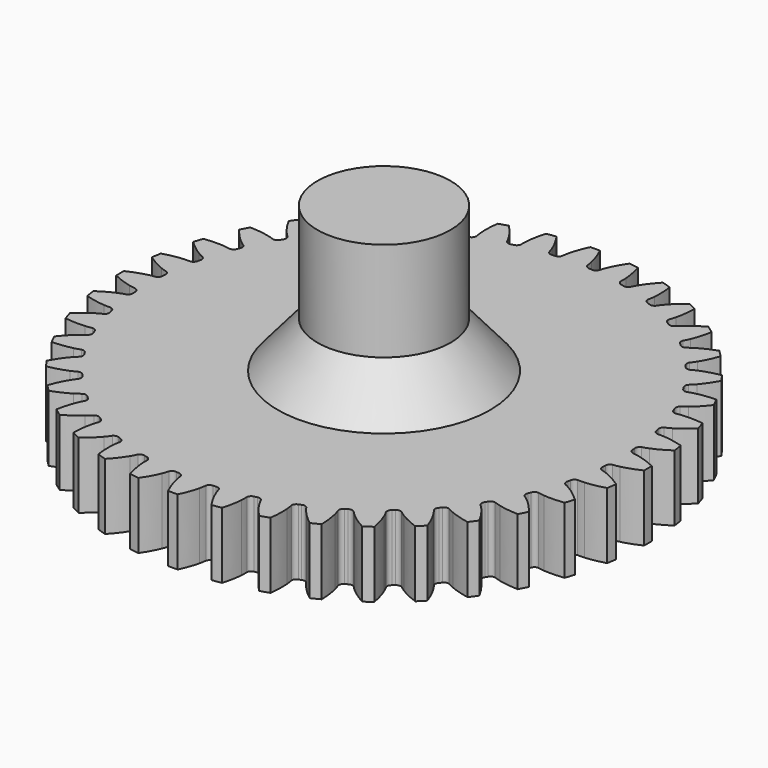
from build123d import *

# Parameters (mm, degrees)
PAD013_DEPTH    = 5
SKETCH017_R     = 5.03
PAD014_DEPTH    = 16
POCKET002_DEPTH = 5


with BuildPart() as part:
    # InvoluteGear004 → Pad013 (new body)
    with BuildSketch(Plane.XY):
        with BuildLine():
            add(Edge.make_bspline(
                [(18.024562, -0.957942), (18.140787, -0.946937), (18.307583, -0.923429), (18.522739, -0.87391)],
                knots=[0, 0, 0, 0, 1, 1, 1, 1], degree=3))
            add(Edge.make_bspline(
                [(18.522739, -0.87391), (18.877968, -0.792013), (19.360047, -0.640409), (19.947321, -0.36108)],
                knots=[0, 0, 0, 0, 1, 1, 1, 1], degree=3))
            ThreePointArc((19.947321, -0.36108), (19.950589, 0), (19.947321, 0.36108))
            add(Edge.make_bspline(
                [(19.947321, 0.36108), (19.360047, 0.640409), (18.877968, 0.792013), (18.522739, 0.87391)],
                knots=[0, 0, 0, 0, 1, 1, 1, 1], degree=3))
            add(Edge.make_bspline(
                [(18.522739, 0.87391), (18.307583, 0.923429), (18.140787, 0.946937), (18.024646, 0.957929)],
                knots=[0, 0, 0, 0, 1, 1, 1, 1], degree=3))
            ThreePointArc((18.024646, 0.957929), (17.839579, 1.083098), (17.765446, 1.293861))
            ThreePointArc((17.765446, 1.293861), (17.75759, 1.397553), (17.749129, 1.501197))
            ThreePointArc((17.749129, 1.501197), (17.789353, 1.72093), (17.952505, 1.873515))
            add(Edge.make_bspline(
                [(17.952505, 1.873515), (18.065577, 1.902566), (18.226642, 1.951876), (18.431403, 2.034444)],
                knots=[0, 0, 0, 0, 1, 1, 1, 1], degree=3))
            add(Edge.make_bspline(
                [(18.431403, 2.034444), (18.769447, 2.170903), (19.221874, 2.396054), (19.758222, 2.763814)],
                knots=[0, 0, 0, 0, 1, 1, 1, 1], degree=3))
            ThreePointArc((19.758222, 2.763814), (19.704964, 3.12096), (19.645251, 3.477083))
            add(Edge.make_bspline(
                [(19.645251, 3.477083), (19.02151, 3.661103), (18.52165, 3.735427), (18.157983, 3.760746)],
                knots=[0, 0, 0, 0, 1, 1, 1, 1], degree=3))
            add(Edge.make_bspline(
                [(18.157983, 3.760746), (17.93773, 3.775997), (17.76931, 3.773123), (17.65288, 3.765812)],
                knots=[0, 0, 0, 0, 1, 1, 1, 1], degree=3))
            ThreePointArc((17.65288, 3.765812), (17.450511, 3.860488), (17.34432, 4.057059))
            ThreePointArc((17.34432, 4.057059), (17.320339, 4.158246), (17.295768, 4.25929))
            ThreePointArc((17.295768, 4.25929), (17.301124, 4.482611), (17.438398, 4.658839))
            add(Edge.make_bspline(
                [(17.438398, 4.658839), (17.545533, 4.705221), (17.696902, 4.779121), (17.886225, 4.892703)],
                knots=[0, 0, 0, 0, 1, 1, 1, 1], degree=3))
            add(Edge.make_bspline(
                [(17.886225, 4.892703), (18.19876, 5.080364), (18.610396, 5.373519), (19.08261, 5.820654)],
                knots=[0, 0, 0, 0, 1, 1, 1, 1], degree=3))
            ThreePointArc((19.08261, 5.820654), (18.974138, 6.165071), (18.85945, 6.507469))
            add(Edge.make_bspline(
                [(18.85945, 6.507469), (18.214601, 6.591648), (17.709269, 6.586862), (17.346118, 6.554979)],
                knots=[0, 0, 0, 0, 1, 1, 1, 1], degree=3))
            add(Edge.make_bspline(
                [(17.346118, 6.554979), (17.126191, 6.535588), (16.960294, 6.506402), (16.846441, 6.480967)],
                knots=[0, 0, 0, 0, 1, 1, 1, 1], degree=3))
            ThreePointArc((16.846441, 6.480967), (16.631752, 6.54282), (16.496118, 6.72036))
            ThreePointArc((16.496118, 6.72036), (16.456604, 6.816549), (16.416529, 6.912505))
            ThreePointArc((16.416529, 6.912505), (16.386883, 7.133914), (16.494899, 7.329448))
            add(Edge.make_bspline(
                [(16.494899, 7.329448), (16.59346, 7.392018), (16.731404, 7.488687), (16.900628, 7.630488)],
                knots=[0, 0, 0, 0, 1, 1, 1, 1], degree=3))
            add(Edge.make_bspline(
                [(16.900628, 7.630488), (17.179959, 7.864729), (17.540667, 8.218669), (17.93712, 8.73417)],
                knots=[0, 0, 0, 0, 1, 1, 1, 1], degree=3))
            ThreePointArc((17.93712, 8.73417), (17.776105, 9.057378), (17.609266, 9.377619))
            add(Edge.make_bspline(
                [(17.609266, 9.377619), (16.959188, 9.359886), (16.460826, 9.276107), (16.107134, 9.187807)],
                knots=[0, 0, 0, 0, 1, 1, 1, 1], degree=3))
            add(Edge.make_bspline(
                [(16.107134, 9.187807), (15.892948, 9.13425), (15.733659, 9.079472), (15.625186, 9.036539)],
                knots=[0, 0, 0, 0, 1, 1, 1, 1], degree=3))
            ThreePointArc((15.625186, 9.036539), (15.403465, 9.064046), (15.241728, 9.218182))
            ThreePointArc((15.241728, 9.218182), (15.187653, 9.307006), (15.13306, 9.395512))
            ThreePointArc((15.13306, 9.395512), (15.069143, 9.609557), (15.145241, 9.819581))
            add(Edge.make_bspline(
                [(15.145241, 9.819581), (15.2328, 9.896799), (15.353924, 10.013857), (15.498882, 10.180384)],
                knots=[0, 0, 0, 0, 1, 1, 1, 1], degree=3))
            add(Edge.make_bspline(
                [(15.498882, 10.180384), (15.73813, 10.455439), (16.03903, 10.861448), (16.34996, 11.432621)],
                knots=[0, 0, 0, 0, 1, 1, 1, 1], degree=3))
            ThreePointArc((16.34996, 11.432621), (16.140366, 11.726662), (15.925484, 12.016861))
            add(Edge.make_bspline(
                [(15.925484, 12.016861), (15.286184, 11.897651), (14.807063, 11.736943), (14.471539, 11.594401)],
                knots=[0, 0, 0, 0, 1, 1, 1, 1], degree=3))
            add(Edge.make_bspline(
                [(14.471539, 11.594401), (14.268368, 11.507997), (14.119609, 11.428975), (14.019188, 11.369602)],
                knots=[0, 0, 0, 0, 1, 1, 1, 1], degree=3))
            ThreePointArc((14.019188, 11.369602), (13.795894, 11.362086), (13.612036, 11.489023))
            ThreePointArc((13.612036, 11.489023), (13.544731, 11.568293), (13.476965, 11.64717))
            ThreePointArc((13.476965, 11.64717), (13.380351, 11.848581), (13.422657, 12.067923))
            add(Edge.make_bspline(
                [(13.422657, 12.067923), (13.497059, 12.157888), (13.598379, 12.292453), (13.715502, 12.479606)],
                knots=[0, 0, 0, 0, 1, 1, 1, 1], degree=3))
            add(Edge.make_bspline(
                [(13.715502, 12.479606), (13.908777, 12.788701), (14.142458, 13.236783), (14.360208, 13.849564)],
                knots=[0, 0, 0, 0, 1, 1, 1, 1], degree=3))
            ThreePointArc((14.360208, 13.849564), (14.107197, 14.107197), (13.849564, 14.360208))
            add(Edge.make_bspline(
                [(13.849564, 14.360208), (13.236783, 14.142458), (12.788701, 13.908777), (12.479606, 13.715502)],
                knots=[0, 0, 0, 0, 1, 1, 1, 1], degree=3))
            add(Edge.make_bspline(
                [(12.479606, 13.715502), (12.292453, 13.598379), (12.157888, 13.497059), (12.067991, 13.422708)],
                knots=[0, 0, 0, 0, 1, 1, 1, 1], degree=3))
            ThreePointArc((12.067991, 13.422708), (11.848622, 13.380353), (11.64717, 13.476965))
            ThreePointArc((11.64717, 13.476965), (11.568293, 13.544731), (11.489023, 13.612036))
            ThreePointArc((11.489023, 13.612036), (11.362091, 13.795853), (11.369563, 14.019113))
            add(Edge.make_bspline(
                [(11.369563, 14.019113), (11.428975, 14.119609), (11.507997, 14.268368), (11.594401, 14.471539)],
                knots=[0, 0, 0, 0, 1, 1, 1, 1], degree=3))
            add(Edge.make_bspline(
                [(11.594401, 14.471539), (11.736943, 14.807063), (11.897651, 15.286184), (12.016861, 15.925484)],
                knots=[0, 0, 0, 0, 1, 1, 1, 1], degree=3))
            ThreePointArc((12.016861, 15.925484), (11.726662, 16.140366), (11.432621, 16.34996))
            add(Edge.make_bspline(
                [(11.432621, 16.34996), (10.861448, 16.03903), (10.455439, 15.73813), (10.180384, 15.498882)],
                knots=[0, 0, 0, 0, 1, 1, 1, 1], degree=3))
            add(Edge.make_bspline(
                [(10.180384, 15.498882), (10.013857, 15.353924), (9.896799, 15.2328), (9.81964, 15.145302)],
                knots=[0, 0, 0, 0, 1, 1, 1, 1], degree=3))
            ThreePointArc((9.81964, 15.145302), (9.609597, 15.069151), (9.395512, 15.13306))
            ThreePointArc((9.395512, 15.13306), (9.307006, 15.187653), (9.218182, 15.241728))
            ThreePointArc((9.218182, 15.241728), (9.064057, 15.403426), (9.036512, 15.625106))
            add(Edge.make_bspline(
                [(9.036512, 15.625106), (9.079472, 15.733659), (9.13425, 15.892948), (9.187807, 16.107134)],
                knots=[0, 0, 0, 0, 1, 1, 1, 1], degree=3))
            add(Edge.make_bspline(
                [(9.187807, 16.107134), (9.276107, 16.460826), (9.359886, 16.959188), (9.377619, 17.609266)],
                knots=[0, 0, 0, 0, 1, 1, 1, 1], degree=3))
            ThreePointArc((9.377619, 17.609266), (9.057378, 17.776105), (8.73417, 17.93712))
            add(Edge.make_bspline(
                [(8.73417, 17.93712), (8.218669, 17.540667), (7.864729, 17.179959), (7.630488, 16.900628)],
                knots=[0, 0, 0, 0, 1, 1, 1, 1], degree=3))
            add(Edge.make_bspline(
                [(7.630488, 16.900628), (7.488687, 16.731404), (7.392018, 16.59346), (7.329497, 16.494968)],
                knots=[0, 0, 0, 0, 1, 1, 1, 1], degree=3))
            ThreePointArc((7.329497, 16.494968), (7.133952, 16.386897), (6.912505, 16.416529))
            ThreePointArc((6.912505, 16.416529), (6.816549, 16.456604), (6.72036, 16.496118))
            ThreePointArc((6.72036, 16.496118), (6.542837, 16.631715), (6.480953, 16.846357))
            add(Edge.make_bspline(
                [(6.480953, 16.846357), (6.506402, 16.960294), (6.535588, 17.126191), (6.554979, 17.346118)],
                knots=[0, 0, 0, 0, 1, 1, 1, 1], degree=3))
            add(Edge.make_bspline(
                [(6.554979, 17.346118), (6.586862, 17.709269), (6.591648, 18.214601), (6.507469, 18.85945)],
                knots=[0, 0, 0, 0, 1, 1, 1, 1], degree=3))
            ThreePointArc((6.507469, 18.85945), (6.165071, 18.974138), (5.820654, 19.08261))
            add(Edge.make_bspline(
                [(5.820654, 19.08261), (5.373519, 18.610396), (5.080364, 18.19876), (4.892703, 17.886225)],
                knots=[0, 0, 0, 0, 1, 1, 1, 1], degree=3))
            add(Edge.make_bspline(
                [(4.892703, 17.886225), (4.779121, 17.696902), (4.705221, 17.545533), (4.658877, 17.438474)],
                knots=[0, 0, 0, 0, 1, 1, 1, 1], degree=3))
            ThreePointArc((4.658877, 17.438474), (4.482646, 17.301144), (4.25929, 17.295768))
            ThreePointArc((4.25929, 17.295768), (4.158246, 17.320339), (4.057059, 17.34432))
            ThreePointArc((4.057059, 17.34432), (3.86051, 17.450477), (3.765811, 17.652795))
            add(Edge.make_bspline(
                [(3.765811, 17.652795), (3.773123, 17.76931), (3.775997, 17.93773), (3.760746, 18.157983)],
                knots=[0, 0, 0, 0, 1, 1, 1, 1], degree=3))
            add(Edge.make_bspline(
                [(3.760746, 18.157983), (3.735427, 18.52165), (3.661103, 19.02151), (3.477083, 19.645251)],
                knots=[0, 0, 0, 0, 1, 1, 1, 1], degree=3))
            ThreePointArc((3.477083, 19.645251), (3.12096, 19.704964), (2.763814, 19.758222))
            add(Edge.make_bspline(
                [(2.763814, 19.758222), (2.396054, 19.221874), (2.170903, 18.769447), (2.034444, 18.431403)],
                knots=[0, 0, 0, 0, 1, 1, 1, 1], degree=3))
            add(Edge.make_bspline(
                [(2.034444, 18.431403), (1.951876, 18.226642), (1.902566, 18.065577), (1.87354, 17.952586)],
                knots=[0, 0, 0, 0, 1, 1, 1, 1], degree=3))
            ThreePointArc((1.87354, 17.952586), (1.720962, 17.789378), (1.501197, 17.749129))
            ThreePointArc((1.501197, 17.749129), (1.397553, 17.75759), (1.293861, 17.765446))
            ThreePointArc((1.293861, 17.765446), (1.083125, 17.839549), (0.957942, 18.024562))
            add(Edge.make_bspline(
                [(0.957942, 18.024562), (0.946937, 18.140787), (0.923429, 18.307583), (0.87391, 18.522739)],
                knots=[0, 0, 0, 0, 1, 1, 1, 1], degree=3))
            add(Edge.make_bspline(
                [(0.87391, 18.522739), (0.792013, 18.877968), (0.640409, 19.360047), (0.36108, 19.947321)],
                knots=[0, 0, 0, 0, 1, 1, 1, 1], degree=3))
            ThreePointArc((0.36108, 19.947321), (0, 19.950589), (-0.36108, 19.947321))
            add(Edge.make_bspline(
                [(-0.36108, 19.947321), (-0.640409, 19.360047), (-0.792013, 18.877968), (-0.87391, 18.522739)],
                knots=[0, 0, 0, 0, 1, 1, 1, 1], degree=3))
            add(Edge.make_bspline(
                [(-0.87391, 18.522739), (-0.923429, 18.307583), (-0.946937, 18.140787), (-0.957929, 18.024646)],
                knots=[0, 0, 0, 0, 1, 1, 1, 1], degree=3))
            ThreePointArc((-0.957929, 18.024646), (-1.083098, 17.839579), (-1.293861, 17.765446))
            ThreePointArc((-1.293861, 17.765446), (-1.397553, 17.75759), (-1.501197, 17.749129))
            ThreePointArc((-1.501197, 17.749129), (-1.72093, 17.789353), (-1.873515, 17.952505))
            add(Edge.make_bspline(
                [(-1.873515, 17.952505), (-1.902566, 18.065577), (-1.951876, 18.226642), (-2.034444, 18.431403)],
                knots=[0, 0, 0, 0, 1, 1, 1, 1], degree=3))
            add(Edge.make_bspline(
                [(-2.034444, 18.431403), (-2.170903, 18.769447), (-2.396054, 19.221874), (-2.763814, 19.758222)],
                knots=[0, 0, 0, 0, 1, 1, 1, 1], degree=3))
            ThreePointArc((-2.763814, 19.758222), (-3.12096, 19.704964), (-3.477083, 19.645251))
            add(Edge.make_bspline(
                [(-3.477083, 19.645251), (-3.661103, 19.02151), (-3.735427, 18.52165), (-3.760746, 18.157983)],
                knots=[0, 0, 0, 0, 1, 1, 1, 1], degree=3))
            add(Edge.make_bspline(
                [(-3.760746, 18.157983), (-3.775997, 17.93773), (-3.773123, 17.76931), (-3.765812, 17.65288)],
                knots=[0, 0, 0, 0, 1, 1, 1, 1], degree=3))
            ThreePointArc((-3.765812, 17.65288), (-3.860488, 17.450511), (-4.057059, 17.34432))
            ThreePointArc((-4.057059, 17.34432), (-4.158246, 17.320339), (-4.25929, 17.295768))
            ThreePointArc((-4.25929, 17.295768), (-4.482611, 17.301124), (-4.658839, 17.438398))
            add(Edge.make_bspline(
                [(-4.658839, 17.438398), (-4.705221, 17.545533), (-4.779121, 17.696902), (-4.892703, 17.886225)],
                knots=[0, 0, 0, 0, 1, 1, 1, 1], degree=3))
            add(Edge.make_bspline(
                [(-4.892703, 17.886225), (-5.080364, 18.19876), (-5.373519, 18.610396), (-5.820654, 19.08261)],
                knots=[0, 0, 0, 0, 1, 1, 1, 1], degree=3))
            ThreePointArc((-5.820654, 19.08261), (-6.165071, 18.974138), (-6.507469, 18.85945))
            add(Edge.make_bspline(
                [(-6.507469, 18.85945), (-6.591648, 18.214601), (-6.586862, 17.709269), (-6.554979, 17.346118)],
                knots=[0, 0, 0, 0, 1, 1, 1, 1], degree=3))
            add(Edge.make_bspline(
                [(-6.554979, 17.346118), (-6.535588, 17.126191), (-6.506402, 16.960294), (-6.480967, 16.846441)],
                knots=[0, 0, 0, 0, 1, 1, 1, 1], degree=3))
            ThreePointArc((-6.480967, 16.846441), (-6.54282, 16.631752), (-6.72036, 16.496118))
            ThreePointArc((-6.72036, 16.496118), (-6.816549, 16.456604), (-6.912505, 16.416529))
            ThreePointArc((-6.912505, 16.416529), (-7.133914, 16.386883), (-7.329448, 16.494899))
            add(Edge.make_bspline(
                [(-7.329448, 16.494899), (-7.392018, 16.59346), (-7.488687, 16.731404), (-7.630488, 16.900628)],
                knots=[0, 0, 0, 0, 1, 1, 1, 1], degree=3))
            add(Edge.make_bspline(
                [(-7.630488, 16.900628), (-7.864729, 17.179959), (-8.218669, 17.540667), (-8.73417, 17.93712)],
                knots=[0, 0, 0, 0, 1, 1, 1, 1], degree=3))
            ThreePointArc((-8.73417, 17.93712), (-9.057378, 17.776105), (-9.377619, 17.609266))
            add(Edge.make_bspline(
                [(-9.377619, 17.609266), (-9.359886, 16.959188), (-9.276107, 16.460826), (-9.187807, 16.107134)],
                knots=[0, 0, 0, 0, 1, 1, 1, 1], degree=3))
            add(Edge.make_bspline(
                [(-9.187807, 16.107134), (-9.13425, 15.892948), (-9.079472, 15.733659), (-9.036539, 15.625186)],
                knots=[0, 0, 0, 0, 1, 1, 1, 1], degree=3))
            ThreePointArc((-9.036539, 15.625186), (-9.064046, 15.403465), (-9.218182, 15.241728))
            ThreePointArc((-9.218182, 15.241728), (-9.307006, 15.187653), (-9.395512, 15.13306))
            ThreePointArc((-9.395512, 15.13306), (-9.609557, 15.069143), (-9.819581, 15.145241))
            add(Edge.make_bspline(
                [(-9.819581, 15.145241), (-9.896799, 15.2328), (-10.013857, 15.353924), (-10.180384, 15.498882)],
                knots=[0, 0, 0, 0, 1, 1, 1, 1], degree=3))
            add(Edge.make_bspline(
                [(-10.180384, 15.498882), (-10.455439, 15.73813), (-10.861448, 16.03903), (-11.432621, 16.34996)],
                knots=[0, 0, 0, 0, 1, 1, 1, 1], degree=3))
            ThreePointArc((-11.432621, 16.34996), (-11.726662, 16.140366), (-12.016861, 15.925484))
            add(Edge.make_bspline(
                [(-12.016861, 15.925484), (-11.897651, 15.286184), (-11.736943, 14.807063), (-11.594401, 14.471539)],
                knots=[0, 0, 0, 0, 1, 1, 1, 1], degree=3))
            add(Edge.make_bspline(
                [(-11.594401, 14.471539), (-11.507997, 14.268368), (-11.428975, 14.119609), (-11.369602, 14.019188)],
                knots=[0, 0, 0, 0, 1, 1, 1, 1], degree=3))
            ThreePointArc((-11.369602, 14.019188), (-11.362086, 13.795894), (-11.489023, 13.612036))
            ThreePointArc((-11.489023, 13.612036), (-11.568293, 13.544731), (-11.64717, 13.476965))
            ThreePointArc((-11.64717, 13.476965), (-11.848581, 13.380351), (-12.067923, 13.422657))
            add(Edge.make_bspline(
                [(-12.067923, 13.422657), (-12.157888, 13.497059), (-12.292453, 13.598379), (-12.479606, 13.715502)],
                knots=[0, 0, 0, 0, 1, 1, 1, 1], degree=3))
            add(Edge.make_bspline(
                [(-12.479606, 13.715502), (-12.788701, 13.908777), (-13.236783, 14.142458), (-13.849564, 14.360208)],
                knots=[0, 0, 0, 0, 1, 1, 1, 1], degree=3))
            ThreePointArc((-13.849564, 14.360208), (-14.107197, 14.107197), (-14.360208, 13.849564))
            add(Edge.make_bspline(
                [(-14.360208, 13.849564), (-14.142458, 13.236783), (-13.908777, 12.788701), (-13.715502, 12.479606)],
                knots=[0, 0, 0, 0, 1, 1, 1, 1], degree=3))
            add(Edge.make_bspline(
                [(-13.715502, 12.479606), (-13.598379, 12.292453), (-13.497059, 12.157888), (-13.422708, 12.067991)],
                knots=[0, 0, 0, 0, 1, 1, 1, 1], degree=3))
            ThreePointArc((-13.422708, 12.067991), (-13.380353, 11.848622), (-13.476965, 11.64717))
            ThreePointArc((-13.476965, 11.64717), (-13.544731, 11.568293), (-13.612036, 11.489023))
            ThreePointArc((-13.612036, 11.489023), (-13.795853, 11.362091), (-14.019113, 11.369563))
            add(Edge.make_bspline(
                [(-14.019113, 11.369563), (-14.119609, 11.428975), (-14.268368, 11.507997), (-14.471539, 11.594401)],
                knots=[0, 0, 0, 0, 1, 1, 1, 1], degree=3))
            add(Edge.make_bspline(
                [(-14.471539, 11.594401), (-14.807063, 11.736943), (-15.286184, 11.897651), (-15.925484, 12.016861)],
                knots=[0, 0, 0, 0, 1, 1, 1, 1], degree=3))
            ThreePointArc((-15.925484, 12.016861), (-16.140366, 11.726662), (-16.34996, 11.432621))
            add(Edge.make_bspline(
                [(-16.34996, 11.432621), (-16.03903, 10.861448), (-15.73813, 10.455439), (-15.498882, 10.180384)],
                knots=[0, 0, 0, 0, 1, 1, 1, 1], degree=3))
            add(Edge.make_bspline(
                [(-15.498882, 10.180384), (-15.353924, 10.013857), (-15.2328, 9.896799), (-15.145302, 9.81964)],
                knots=[0, 0, 0, 0, 1, 1, 1, 1], degree=3))
            ThreePointArc((-15.145302, 9.81964), (-15.069151, 9.609597), (-15.13306, 9.395512))
            ThreePointArc((-15.13306, 9.395512), (-15.187653, 9.307006), (-15.241728, 9.218182))
            ThreePointArc((-15.241728, 9.218182), (-15.403426, 9.064057), (-15.625106, 9.036512))
            add(Edge.make_bspline(
                [(-15.625106, 9.036512), (-15.733659, 9.079472), (-15.892948, 9.13425), (-16.107134, 9.187807)],
                knots=[0, 0, 0, 0, 1, 1, 1, 1], degree=3))
            add(Edge.make_bspline(
                [(-16.107134, 9.187807), (-16.460826, 9.276107), (-16.959188, 9.359886), (-17.609266, 9.377619)],
                knots=[0, 0, 0, 0, 1, 1, 1, 1], degree=3))
            ThreePointArc((-17.609266, 9.377619), (-17.776105, 9.057378), (-17.93712, 8.73417))
            add(Edge.make_bspline(
                [(-17.93712, 8.73417), (-17.540667, 8.218669), (-17.179959, 7.864729), (-16.900628, 7.630488)],
                knots=[0, 0, 0, 0, 1, 1, 1, 1], degree=3))
            add(Edge.make_bspline(
                [(-16.900628, 7.630488), (-16.731404, 7.488687), (-16.59346, 7.392018), (-16.494968, 7.329497)],
                knots=[0, 0, 0, 0, 1, 1, 1, 1], degree=3))
            ThreePointArc((-16.494968, 7.329497), (-16.386897, 7.133952), (-16.416529, 6.912505))
            ThreePointArc((-16.416529, 6.912505), (-16.456604, 6.816549), (-16.496118, 6.72036))
            ThreePointArc((-16.496118, 6.72036), (-16.631715, 6.542837), (-16.846357, 6.480953))
            add(Edge.make_bspline(
                [(-16.846357, 6.480953), (-16.960294, 6.506402), (-17.126191, 6.535588), (-17.346118, 6.554979)],
                knots=[0, 0, 0, 0, 1, 1, 1, 1], degree=3))
            add(Edge.make_bspline(
                [(-17.346118, 6.554979), (-17.709269, 6.586862), (-18.214601, 6.591648), (-18.85945, 6.507469)],
                knots=[0, 0, 0, 0, 1, 1, 1, 1], degree=3))
            ThreePointArc((-18.85945, 6.507469), (-18.974138, 6.165071), (-19.08261, 5.820654))
            add(Edge.make_bspline(
                [(-19.08261, 5.820654), (-18.610396, 5.373519), (-18.19876, 5.080364), (-17.886225, 4.892703)],
                knots=[0, 0, 0, 0, 1, 1, 1, 1], degree=3))
            add(Edge.make_bspline(
                [(-17.886225, 4.892703), (-17.696902, 4.779121), (-17.545533, 4.705221), (-17.438474, 4.658877)],
                knots=[0, 0, 0, 0, 1, 1, 1, 1], degree=3))
            ThreePointArc((-17.438474, 4.658877), (-17.301144, 4.482646), (-17.295768, 4.25929))
            ThreePointArc((-17.295768, 4.25929), (-17.320339, 4.158246), (-17.34432, 4.057059))
            ThreePointArc((-17.34432, 4.057059), (-17.450477, 3.86051), (-17.652795, 3.765811))
            add(Edge.make_bspline(
                [(-17.652795, 3.765811), (-17.76931, 3.773123), (-17.93773, 3.775997), (-18.157983, 3.760746)],
                knots=[0, 0, 0, 0, 1, 1, 1, 1], degree=3))
            add(Edge.make_bspline(
                [(-18.157983, 3.760746), (-18.52165, 3.735427), (-19.02151, 3.661103), (-19.645251, 3.477083)],
                knots=[0, 0, 0, 0, 1, 1, 1, 1], degree=3))
            ThreePointArc((-19.645251, 3.477083), (-19.704964, 3.12096), (-19.758222, 2.763814))
            add(Edge.make_bspline(
                [(-19.758222, 2.763814), (-19.221874, 2.396054), (-18.769447, 2.170903), (-18.431403, 2.034444)],
                knots=[0, 0, 0, 0, 1, 1, 1, 1], degree=3))
            add(Edge.make_bspline(
                [(-18.431403, 2.034444), (-18.226642, 1.951876), (-18.065577, 1.902566), (-17.952586, 1.87354)],
                knots=[0, 0, 0, 0, 1, 1, 1, 1], degree=3))
            ThreePointArc((-17.952586, 1.87354), (-17.789378, 1.720962), (-17.749129, 1.501197))
            ThreePointArc((-17.749129, 1.501197), (-17.75759, 1.397553), (-17.765446, 1.293861))
            ThreePointArc((-17.765446, 1.293861), (-17.839549, 1.083125), (-18.024562, 0.957942))
            add(Edge.make_bspline(
                [(-18.024562, 0.957942), (-18.140787, 0.946937), (-18.307583, 0.923429), (-18.522739, 0.87391)],
                knots=[0, 0, 0, 0, 1, 1, 1, 1], degree=3))
            add(Edge.make_bspline(
                [(-18.522739, 0.87391), (-18.877968, 0.792013), (-19.360047, 0.640409), (-19.947321, 0.36108)],
                knots=[0, 0, 0, 0, 1, 1, 1, 1], degree=3))
            ThreePointArc((-19.947321, 0.36108), (-19.950589, 0), (-19.947321, -0.36108))
            add(Edge.make_bspline(
                [(-19.947321, -0.36108), (-19.360047, -0.640409), (-18.877968, -0.792013), (-18.522739, -0.87391)],
                knots=[0, 0, 0, 0, 1, 1, 1, 1], degree=3))
            add(Edge.make_bspline(
                [(-18.522739, -0.87391), (-18.307583, -0.923429), (-18.140787, -0.946937), (-18.024646, -0.957929)],
                knots=[0, 0, 0, 0, 1, 1, 1, 1], degree=3))
            ThreePointArc((-18.024646, -0.957929), (-17.839579, -1.083098), (-17.765446, -1.293861))
            ThreePointArc((-17.765446, -1.293861), (-17.75759, -1.397553), (-17.749129, -1.501197))
            ThreePointArc((-17.749129, -1.501197), (-17.789353, -1.72093), (-17.952505, -1.873515))
            add(Edge.make_bspline(
                [(-17.952505, -1.873515), (-18.065577, -1.902566), (-18.226642, -1.951876), (-18.431403, -2.034444)],
                knots=[0, 0, 0, 0, 1, 1, 1, 1], degree=3))
            add(Edge.make_bspline(
                [(-18.431403, -2.034444), (-18.769447, -2.170903), (-19.221874, -2.396054), (-19.758222, -2.763814)],
                knots=[0, 0, 0, 0, 1, 1, 1, 1], degree=3))
            ThreePointArc((-19.758222, -2.763814), (-19.704964, -3.12096), (-19.645251, -3.477083))
            add(Edge.make_bspline(
                [(-19.645251, -3.477083), (-19.02151, -3.661103), (-18.52165, -3.735427), (-18.157983, -3.760746)],
                knots=[0, 0, 0, 0, 1, 1, 1, 1], degree=3))
            add(Edge.make_bspline(
                [(-18.157983, -3.760746), (-17.93773, -3.775997), (-17.76931, -3.773123), (-17.65288, -3.765812)],
                knots=[0, 0, 0, 0, 1, 1, 1, 1], degree=3))
            ThreePointArc((-17.65288, -3.765812), (-17.450511, -3.860488), (-17.34432, -4.057059))
            ThreePointArc((-17.34432, -4.057059), (-17.320339, -4.158246), (-17.295768, -4.25929))
            ThreePointArc((-17.295768, -4.25929), (-17.301124, -4.482611), (-17.438398, -4.658839))
            add(Edge.make_bspline(
                [(-17.438398, -4.658839), (-17.545533, -4.705221), (-17.696902, -4.779121), (-17.886225, -4.892703)],
                knots=[0, 0, 0, 0, 1, 1, 1, 1], degree=3))
            add(Edge.make_bspline(
                [(-17.886225, -4.892703), (-18.19876, -5.080364), (-18.610396, -5.373519), (-19.08261, -5.820654)],
                knots=[0, 0, 0, 0, 1, 1, 1, 1], degree=3))
            ThreePointArc((-19.08261, -5.820654), (-18.974138, -6.165071), (-18.85945, -6.507469))
            add(Edge.make_bspline(
                [(-18.85945, -6.507469), (-18.214601, -6.591648), (-17.709269, -6.586862), (-17.346118, -6.554979)],
                knots=[0, 0, 0, 0, 1, 1, 1, 1], degree=3))
            add(Edge.make_bspline(
                [(-17.346118, -6.554979), (-17.126191, -6.535588), (-16.960294, -6.506402), (-16.846441, -6.480967)],
                knots=[0, 0, 0, 0, 1, 1, 1, 1], degree=3))
            ThreePointArc((-16.846441, -6.480967), (-16.631752, -6.54282), (-16.496118, -6.72036))
            ThreePointArc((-16.496118, -6.72036), (-16.456604, -6.816549), (-16.416529, -6.912505))
            ThreePointArc((-16.416529, -6.912505), (-16.386883, -7.133914), (-16.494899, -7.329448))
            add(Edge.make_bspline(
                [(-16.494899, -7.329448), (-16.59346, -7.392018), (-16.731404, -7.488687), (-16.900628, -7.630488)],
                knots=[0, 0, 0, 0, 1, 1, 1, 1], degree=3))
            add(Edge.make_bspline(
                [(-16.900628, -7.630488), (-17.179959, -7.864729), (-17.540667, -8.218669), (-17.93712, -8.73417)],
                knots=[0, 0, 0, 0, 1, 1, 1, 1], degree=3))
            ThreePointArc((-17.93712, -8.73417), (-17.776105, -9.057378), (-17.609266, -9.377619))
            add(Edge.make_bspline(
                [(-17.609266, -9.377619), (-16.959188, -9.359886), (-16.460826, -9.276107), (-16.107134, -9.187807)],
                knots=[0, 0, 0, 0, 1, 1, 1, 1], degree=3))
            add(Edge.make_bspline(
                [(-16.107134, -9.187807), (-15.892948, -9.13425), (-15.733659, -9.079472), (-15.625186, -9.036539)],
                knots=[0, 0, 0, 0, 1, 1, 1, 1], degree=3))
            ThreePointArc((-15.625186, -9.036539), (-15.403465, -9.064046), (-15.241728, -9.218182))
            ThreePointArc((-15.241728, -9.218182), (-15.187653, -9.307006), (-15.13306, -9.395512))
            ThreePointArc((-15.13306, -9.395512), (-15.069143, -9.609557), (-15.145241, -9.819581))
            add(Edge.make_bspline(
                [(-15.145241, -9.819581), (-15.2328, -9.896799), (-15.353924, -10.013857), (-15.498882, -10.180384)],
                knots=[0, 0, 0, 0, 1, 1, 1, 1], degree=3))
            add(Edge.make_bspline(
                [(-15.498882, -10.180384), (-15.73813, -10.455439), (-16.03903, -10.861448), (-16.34996, -11.432621)],
                knots=[0, 0, 0, 0, 1, 1, 1, 1], degree=3))
            ThreePointArc((-16.34996, -11.432621), (-16.140366, -11.726662), (-15.925484, -12.016861))
            add(Edge.make_bspline(
                [(-15.925484, -12.016861), (-15.286184, -11.897651), (-14.807063, -11.736943), (-14.471539, -11.594401)],
                knots=[0, 0, 0, 0, 1, 1, 1, 1], degree=3))
            add(Edge.make_bspline(
                [(-14.471539, -11.594401), (-14.268368, -11.507997), (-14.119609, -11.428975), (-14.019188, -11.369602)],
                knots=[0, 0, 0, 0, 1, 1, 1, 1], degree=3))
            ThreePointArc((-14.019188, -11.369602), (-13.795894, -11.362086), (-13.612036, -11.489023))
            ThreePointArc((-13.612036, -11.489023), (-13.544731, -11.568293), (-13.476965, -11.64717))
            ThreePointArc((-13.476965, -11.64717), (-13.380351, -11.848581), (-13.422657, -12.067923))
            add(Edge.make_bspline(
                [(-13.422657, -12.067923), (-13.497059, -12.157888), (-13.598379, -12.292453), (-13.715502, -12.479606)],
                knots=[0, 0, 0, 0, 1, 1, 1, 1], degree=3))
            add(Edge.make_bspline(
                [(-13.715502, -12.479606), (-13.908777, -12.788701), (-14.142458, -13.236783), (-14.360208, -13.849564)],
                knots=[0, 0, 0, 0, 1, 1, 1, 1], degree=3))
            ThreePointArc((-14.360208, -13.849564), (-14.107197, -14.107197), (-13.849564, -14.360208))
            add(Edge.make_bspline(
                [(-13.849564, -14.360208), (-13.236783, -14.142458), (-12.788701, -13.908777), (-12.479606, -13.715502)],
                knots=[0, 0, 0, 0, 1, 1, 1, 1], degree=3))
            add(Edge.make_bspline(
                [(-12.479606, -13.715502), (-12.292453, -13.598379), (-12.157888, -13.497059), (-12.067991, -13.422708)],
                knots=[0, 0, 0, 0, 1, 1, 1, 1], degree=3))
            ThreePointArc((-12.067991, -13.422708), (-11.848622, -13.380353), (-11.64717, -13.476965))
            ThreePointArc((-11.64717, -13.476965), (-11.568293, -13.544731), (-11.489023, -13.612036))
            ThreePointArc((-11.489023, -13.612036), (-11.362091, -13.795853), (-11.369563, -14.019113))
            add(Edge.make_bspline(
                [(-11.369563, -14.019113), (-11.428975, -14.119609), (-11.507997, -14.268368), (-11.594401, -14.471539)],
                knots=[0, 0, 0, 0, 1, 1, 1, 1], degree=3))
            add(Edge.make_bspline(
                [(-11.594401, -14.471539), (-11.736943, -14.807063), (-11.897651, -15.286184), (-12.016861, -15.925484)],
                knots=[0, 0, 0, 0, 1, 1, 1, 1], degree=3))
            ThreePointArc((-12.016861, -15.925484), (-11.726662, -16.140366), (-11.432621, -16.34996))
            add(Edge.make_bspline(
                [(-11.432621, -16.34996), (-10.861448, -16.03903), (-10.455439, -15.73813), (-10.180384, -15.498882)],
                knots=[0, 0, 0, 0, 1, 1, 1, 1], degree=3))
            add(Edge.make_bspline(
                [(-10.180384, -15.498882), (-10.013857, -15.353924), (-9.896799, -15.2328), (-9.81964, -15.145302)],
                knots=[0, 0, 0, 0, 1, 1, 1, 1], degree=3))
            ThreePointArc((-9.81964, -15.145302), (-9.609597, -15.069151), (-9.395512, -15.13306))
            ThreePointArc((-9.395512, -15.13306), (-9.307006, -15.187653), (-9.218182, -15.241728))
            ThreePointArc((-9.218182, -15.241728), (-9.064057, -15.403426), (-9.036512, -15.625106))
            add(Edge.make_bspline(
                [(-9.036512, -15.625106), (-9.079472, -15.733659), (-9.13425, -15.892948), (-9.187807, -16.107134)],
                knots=[0, 0, 0, 0, 1, 1, 1, 1], degree=3))
            add(Edge.make_bspline(
                [(-9.187807, -16.107134), (-9.276107, -16.460826), (-9.359886, -16.959188), (-9.377619, -17.609266)],
                knots=[0, 0, 0, 0, 1, 1, 1, 1], degree=3))
            ThreePointArc((-9.377619, -17.609266), (-9.057378, -17.776105), (-8.73417, -17.93712))
            add(Edge.make_bspline(
                [(-8.73417, -17.93712), (-8.218669, -17.540667), (-7.864729, -17.179959), (-7.630488, -16.900628)],
                knots=[0, 0, 0, 0, 1, 1, 1, 1], degree=3))
            add(Edge.make_bspline(
                [(-7.630488, -16.900628), (-7.488687, -16.731404), (-7.392018, -16.59346), (-7.329497, -16.494968)],
                knots=[0, 0, 0, 0, 1, 1, 1, 1], degree=3))
            ThreePointArc((-7.329497, -16.494968), (-7.133952, -16.386897), (-6.912505, -16.416529))
            ThreePointArc((-6.912505, -16.416529), (-6.816549, -16.456604), (-6.72036, -16.496118))
            ThreePointArc((-6.72036, -16.496118), (-6.542837, -16.631715), (-6.480953, -16.846357))
            add(Edge.make_bspline(
                [(-6.480953, -16.846357), (-6.506402, -16.960294), (-6.535588, -17.126191), (-6.554979, -17.346118)],
                knots=[0, 0, 0, 0, 1, 1, 1, 1], degree=3))
            add(Edge.make_bspline(
                [(-6.554979, -17.346118), (-6.586862, -17.709269), (-6.591648, -18.214601), (-6.507469, -18.85945)],
                knots=[0, 0, 0, 0, 1, 1, 1, 1], degree=3))
            ThreePointArc((-6.507469, -18.85945), (-6.165071, -18.974138), (-5.820654, -19.08261))
            add(Edge.make_bspline(
                [(-5.820654, -19.08261), (-5.373519, -18.610396), (-5.080364, -18.19876), (-4.892703, -17.886225)],
                knots=[0, 0, 0, 0, 1, 1, 1, 1], degree=3))
            add(Edge.make_bspline(
                [(-4.892703, -17.886225), (-4.779121, -17.696902), (-4.705221, -17.545533), (-4.658877, -17.438474)],
                knots=[0, 0, 0, 0, 1, 1, 1, 1], degree=3))
            ThreePointArc((-4.658877, -17.438474), (-4.482646, -17.301144), (-4.25929, -17.295768))
            ThreePointArc((-4.25929, -17.295768), (-4.158246, -17.320339), (-4.057059, -17.34432))
            ThreePointArc((-4.057059, -17.34432), (-3.86051, -17.450477), (-3.765811, -17.652795))
            add(Edge.make_bspline(
                [(-3.765811, -17.652795), (-3.773123, -17.76931), (-3.775997, -17.93773), (-3.760746, -18.157983)],
                knots=[0, 0, 0, 0, 1, 1, 1, 1], degree=3))
            add(Edge.make_bspline(
                [(-3.760746, -18.157983), (-3.735427, -18.52165), (-3.661103, -19.02151), (-3.477083, -19.645251)],
                knots=[0, 0, 0, 0, 1, 1, 1, 1], degree=3))
            ThreePointArc((-3.477083, -19.645251), (-3.12096, -19.704964), (-2.763814, -19.758222))
            add(Edge.make_bspline(
                [(-2.763814, -19.758222), (-2.396054, -19.221874), (-2.170903, -18.769447), (-2.034444, -18.431403)],
                knots=[0, 0, 0, 0, 1, 1, 1, 1], degree=3))
            add(Edge.make_bspline(
                [(-2.034444, -18.431403), (-1.951876, -18.226642), (-1.902566, -18.065577), (-1.87354, -17.952586)],
                knots=[0, 0, 0, 0, 1, 1, 1, 1], degree=3))
            ThreePointArc((-1.87354, -17.952586), (-1.720962, -17.789378), (-1.501197, -17.749129))
            ThreePointArc((-1.501197, -17.749129), (-1.397553, -17.75759), (-1.293861, -17.765446))
            ThreePointArc((-1.293861, -17.765446), (-1.083125, -17.839549), (-0.957942, -18.024562))
            add(Edge.make_bspline(
                [(-0.957942, -18.024562), (-0.946937, -18.140787), (-0.923429, -18.307583), (-0.87391, -18.522739)],
                knots=[0, 0, 0, 0, 1, 1, 1, 1], degree=3))
            add(Edge.make_bspline(
                [(-0.87391, -18.522739), (-0.792013, -18.877968), (-0.640409, -19.360047), (-0.36108, -19.947321)],
                knots=[0, 0, 0, 0, 1, 1, 1, 1], degree=3))
            ThreePointArc((-0.36108, -19.947321), (0, -19.950589), (0.36108, -19.947321))
            add(Edge.make_bspline(
                [(0.36108, -19.947321), (0.640409, -19.360047), (0.792013, -18.877968), (0.87391, -18.522739)],
                knots=[0, 0, 0, 0, 1, 1, 1, 1], degree=3))
            add(Edge.make_bspline(
                [(0.87391, -18.522739), (0.923429, -18.307583), (0.946937, -18.140787), (0.957929, -18.024646)],
                knots=[0, 0, 0, 0, 1, 1, 1, 1], degree=3))
            ThreePointArc((0.957929, -18.024646), (1.083098, -17.839579), (1.293861, -17.765446))
            ThreePointArc((1.293861, -17.765446), (1.397553, -17.75759), (1.501197, -17.749129))
            ThreePointArc((1.501197, -17.749129), (1.72093, -17.789353), (1.873515, -17.952505))
            add(Edge.make_bspline(
                [(1.873515, -17.952505), (1.902566, -18.065577), (1.951876, -18.226642), (2.034444, -18.431403)],
                knots=[0, 0, 0, 0, 1, 1, 1, 1], degree=3))
            add(Edge.make_bspline(
                [(2.034444, -18.431403), (2.170903, -18.769447), (2.396054, -19.221874), (2.763814, -19.758222)],
                knots=[0, 0, 0, 0, 1, 1, 1, 1], degree=3))
            ThreePointArc((2.763814, -19.758222), (3.12096, -19.704964), (3.477083, -19.645251))
            add(Edge.make_bspline(
                [(3.477083, -19.645251), (3.661103, -19.02151), (3.735427, -18.52165), (3.760746, -18.157983)],
                knots=[0, 0, 0, 0, 1, 1, 1, 1], degree=3))
            add(Edge.make_bspline(
                [(3.760746, -18.157983), (3.775997, -17.93773), (3.773123, -17.76931), (3.765812, -17.65288)],
                knots=[0, 0, 0, 0, 1, 1, 1, 1], degree=3))
            ThreePointArc((3.765812, -17.65288), (3.860488, -17.450511), (4.057059, -17.34432))
            ThreePointArc((4.057059, -17.34432), (4.158246, -17.320339), (4.25929, -17.295768))
            ThreePointArc((4.25929, -17.295768), (4.482611, -17.301124), (4.658839, -17.438398))
            add(Edge.make_bspline(
                [(4.658839, -17.438398), (4.705221, -17.545533), (4.779121, -17.696902), (4.892703, -17.886225)],
                knots=[0, 0, 0, 0, 1, 1, 1, 1], degree=3))
            add(Edge.make_bspline(
                [(4.892703, -17.886225), (5.080364, -18.19876), (5.373519, -18.610396), (5.820654, -19.08261)],
                knots=[0, 0, 0, 0, 1, 1, 1, 1], degree=3))
            ThreePointArc((5.820654, -19.08261), (6.165071, -18.974138), (6.507469, -18.85945))
            add(Edge.make_bspline(
                [(6.507469, -18.85945), (6.591648, -18.214601), (6.586862, -17.709269), (6.554979, -17.346118)],
                knots=[0, 0, 0, 0, 1, 1, 1, 1], degree=3))
            add(Edge.make_bspline(
                [(6.554979, -17.346118), (6.535588, -17.126191), (6.506402, -16.960294), (6.480967, -16.846441)],
                knots=[0, 0, 0, 0, 1, 1, 1, 1], degree=3))
            ThreePointArc((6.480967, -16.846441), (6.54282, -16.631752), (6.72036, -16.496118))
            ThreePointArc((6.72036, -16.496118), (6.816549, -16.456604), (6.912505, -16.416529))
            ThreePointArc((6.912505, -16.416529), (7.133914, -16.386883), (7.329448, -16.494899))
            add(Edge.make_bspline(
                [(7.329448, -16.494899), (7.392018, -16.59346), (7.488687, -16.731404), (7.630488, -16.900628)],
                knots=[0, 0, 0, 0, 1, 1, 1, 1], degree=3))
            add(Edge.make_bspline(
                [(7.630488, -16.900628), (7.864729, -17.179959), (8.218669, -17.540667), (8.73417, -17.93712)],
                knots=[0, 0, 0, 0, 1, 1, 1, 1], degree=3))
            ThreePointArc((8.73417, -17.93712), (9.057378, -17.776105), (9.377619, -17.609266))
            add(Edge.make_bspline(
                [(9.377619, -17.609266), (9.359886, -16.959188), (9.276107, -16.460826), (9.187807, -16.107134)],
                knots=[0, 0, 0, 0, 1, 1, 1, 1], degree=3))
            add(Edge.make_bspline(
                [(9.187807, -16.107134), (9.13425, -15.892948), (9.079472, -15.733659), (9.036539, -15.625186)],
                knots=[0, 0, 0, 0, 1, 1, 1, 1], degree=3))
            ThreePointArc((9.036539, -15.625186), (9.064046, -15.403465), (9.218182, -15.241728))
            ThreePointArc((9.218182, -15.241728), (9.307006, -15.187653), (9.395512, -15.13306))
            ThreePointArc((9.395512, -15.13306), (9.609557, -15.069143), (9.819581, -15.145241))
            add(Edge.make_bspline(
                [(9.819581, -15.145241), (9.896799, -15.2328), (10.013857, -15.353924), (10.180384, -15.498882)],
                knots=[0, 0, 0, 0, 1, 1, 1, 1], degree=3))
            add(Edge.make_bspline(
                [(10.180384, -15.498882), (10.455439, -15.73813), (10.861448, -16.03903), (11.432621, -16.34996)],
                knots=[0, 0, 0, 0, 1, 1, 1, 1], degree=3))
            ThreePointArc((11.432621, -16.34996), (11.726662, -16.140366), (12.016861, -15.925484))
            add(Edge.make_bspline(
                [(12.016861, -15.925484), (11.897651, -15.286184), (11.736943, -14.807063), (11.594401, -14.471539)],
                knots=[0, 0, 0, 0, 1, 1, 1, 1], degree=3))
            add(Edge.make_bspline(
                [(11.594401, -14.471539), (11.507997, -14.268368), (11.428975, -14.119609), (11.369602, -14.019188)],
                knots=[0, 0, 0, 0, 1, 1, 1, 1], degree=3))
            ThreePointArc((11.369602, -14.019188), (11.362086, -13.795894), (11.489023, -13.612036))
            ThreePointArc((11.489023, -13.612036), (11.568293, -13.544731), (11.64717, -13.476965))
            ThreePointArc((11.64717, -13.476965), (11.848581, -13.380351), (12.067923, -13.422657))
            add(Edge.make_bspline(
                [(12.067923, -13.422657), (12.157888, -13.497059), (12.292453, -13.598379), (12.479606, -13.715502)],
                knots=[0, 0, 0, 0, 1, 1, 1, 1], degree=3))
            add(Edge.make_bspline(
                [(12.479606, -13.715502), (12.788701, -13.908777), (13.236783, -14.142458), (13.849564, -14.360208)],
                knots=[0, 0, 0, 0, 1, 1, 1, 1], degree=3))
            ThreePointArc((13.849564, -14.360208), (14.107197, -14.107197), (14.360208, -13.849564))
            add(Edge.make_bspline(
                [(14.360208, -13.849564), (14.142458, -13.236783), (13.908777, -12.788701), (13.715502, -12.479606)],
                knots=[0, 0, 0, 0, 1, 1, 1, 1], degree=3))
            add(Edge.make_bspline(
                [(13.715502, -12.479606), (13.598379, -12.292453), (13.497059, -12.157888), (13.422708, -12.067991)],
                knots=[0, 0, 0, 0, 1, 1, 1, 1], degree=3))
            ThreePointArc((13.422708, -12.067991), (13.380353, -11.848622), (13.476965, -11.64717))
            ThreePointArc((13.476965, -11.64717), (13.544731, -11.568293), (13.612036, -11.489023))
            ThreePointArc((13.612036, -11.489023), (13.795853, -11.362091), (14.019113, -11.369563))
            add(Edge.make_bspline(
                [(14.019113, -11.369563), (14.119609, -11.428975), (14.268368, -11.507997), (14.471539, -11.594401)],
                knots=[0, 0, 0, 0, 1, 1, 1, 1], degree=3))
            add(Edge.make_bspline(
                [(14.471539, -11.594401), (14.807063, -11.736943), (15.286184, -11.897651), (15.925484, -12.016861)],
                knots=[0, 0, 0, 0, 1, 1, 1, 1], degree=3))
            ThreePointArc((15.925484, -12.016861), (16.140366, -11.726662), (16.34996, -11.432621))
            add(Edge.make_bspline(
                [(16.34996, -11.432621), (16.03903, -10.861448), (15.73813, -10.455439), (15.498882, -10.180384)],
                knots=[0, 0, 0, 0, 1, 1, 1, 1], degree=3))
            add(Edge.make_bspline(
                [(15.498882, -10.180384), (15.353924, -10.013857), (15.2328, -9.896799), (15.145302, -9.81964)],
                knots=[0, 0, 0, 0, 1, 1, 1, 1], degree=3))
            ThreePointArc((15.145302, -9.81964), (15.069151, -9.609597), (15.13306, -9.395512))
            ThreePointArc((15.13306, -9.395512), (15.187653, -9.307006), (15.241728, -9.218182))
            ThreePointArc((15.241728, -9.218182), (15.403426, -9.064057), (15.625106, -9.036512))
            add(Edge.make_bspline(
                [(15.625106, -9.036512), (15.733659, -9.079472), (15.892948, -9.13425), (16.107134, -9.187807)],
                knots=[0, 0, 0, 0, 1, 1, 1, 1], degree=3))
            add(Edge.make_bspline(
                [(16.107134, -9.187807), (16.460826, -9.276107), (16.959188, -9.359886), (17.609266, -9.377619)],
                knots=[0, 0, 0, 0, 1, 1, 1, 1], degree=3))
            ThreePointArc((17.609266, -9.377619), (17.776105, -9.057378), (17.93712, -8.73417))
            add(Edge.make_bspline(
                [(17.93712, -8.73417), (17.540667, -8.218669), (17.179959, -7.864729), (16.900628, -7.630488)],
                knots=[0, 0, 0, 0, 1, 1, 1, 1], degree=3))
            add(Edge.make_bspline(
                [(16.900628, -7.630488), (16.731404, -7.488687), (16.59346, -7.392018), (16.494968, -7.329497)],
                knots=[0, 0, 0, 0, 1, 1, 1, 1], degree=3))
            ThreePointArc((16.494968, -7.329497), (16.386897, -7.133952), (16.416529, -6.912505))
            ThreePointArc((16.416529, -6.912505), (16.456604, -6.816549), (16.496118, -6.72036))
            ThreePointArc((16.496118, -6.72036), (16.631715, -6.542837), (16.846357, -6.480953))
            add(Edge.make_bspline(
                [(16.846357, -6.480953), (16.960294, -6.506402), (17.126191, -6.535588), (17.346118, -6.554979)],
                knots=[0, 0, 0, 0, 1, 1, 1, 1], degree=3))
            add(Edge.make_bspline(
                [(17.346118, -6.554979), (17.709269, -6.586862), (18.214601, -6.591648), (18.85945, -6.507469)],
                knots=[0, 0, 0, 0, 1, 1, 1, 1], degree=3))
            ThreePointArc((18.85945, -6.507469), (18.974138, -6.165071), (19.08261, -5.820654))
            add(Edge.make_bspline(
                [(19.08261, -5.820654), (18.610396, -5.373519), (18.19876, -5.080364), (17.886225, -4.892703)],
                knots=[0, 0, 0, 0, 1, 1, 1, 1], degree=3))
            add(Edge.make_bspline(
                [(17.886225, -4.892703), (17.696902, -4.779121), (17.545533, -4.705221), (17.438474, -4.658877)],
                knots=[0, 0, 0, 0, 1, 1, 1, 1], degree=3))
            ThreePointArc((17.438474, -4.658877), (17.301144, -4.482646), (17.295768, -4.25929))
            ThreePointArc((17.295768, -4.25929), (17.320339, -4.158246), (17.34432, -4.057059))
            ThreePointArc((17.34432, -4.057059), (17.450477, -3.86051), (17.652795, -3.765811))
            add(Edge.make_bspline(
                [(17.652795, -3.765811), (17.76931, -3.773123), (17.93773, -3.775997), (18.157983, -3.760746)],
                knots=[0, 0, 0, 0, 1, 1, 1, 1], degree=3))
            add(Edge.make_bspline(
                [(18.157983, -3.760746), (18.52165, -3.735427), (19.02151, -3.661103), (19.645251, -3.477083)],
                knots=[0, 0, 0, 0, 1, 1, 1, 1], degree=3))
            ThreePointArc((19.645251, -3.477083), (19.704964, -3.12096), (19.758222, -2.763814))
            add(Edge.make_bspline(
                [(19.758222, -2.763814), (19.221874, -2.396054), (18.769447, -2.170903), (18.431403, -2.034444)],
                knots=[0, 0, 0, 0, 1, 1, 1, 1], degree=3))
            add(Edge.make_bspline(
                [(18.431403, -2.034444), (18.226642, -1.951876), (18.065577, -1.902566), (17.952586, -1.87354)],
                knots=[0, 0, 0, 0, 1, 1, 1, 1], degree=3))
            ThreePointArc((17.952586, -1.87354), (17.789378, -1.720962), (17.749129, -1.501197))
            ThreePointArc((17.749129, -1.501197), (17.75759, -1.397553), (17.765446, -1.293861))
            ThreePointArc((17.765446, -1.293861), (17.839549, -1.083125), (18.024562, -0.957942))
        make_face()
    extrude(amount=PAD013_DEPTH)

    # Sketch017 → Pad014 (join)
    with BuildSketch(Plane.XY):
        Circle(SKETCH017_R)
    extrude(amount=PAD014_DEPTH)

    # Sketch018 → Revolution004 (revolve)
    with BuildSketch(Plane.XZ):
        Polygon((5.03, 5), (8.03, 5), (5.03, 8.5), align=None)
    revolve(axis=Axis((0, 0, 0), (0, 0, 1)))

    # Sketch019 → Pocket002 (cut)
    with BuildSketch(Plane.XY):
        Polygon((4.218057, -2.619012), (4.377159, 2.343438), (0.159102, 4.96245), (-4.218057, 2.619012), (-4.377159, -2.343438), (-0.159102, -4.96245), align=None)
    extrude(amount=POCKET002_DEPTH, mode=Mode.SUBTRACT)


solid = part.part
